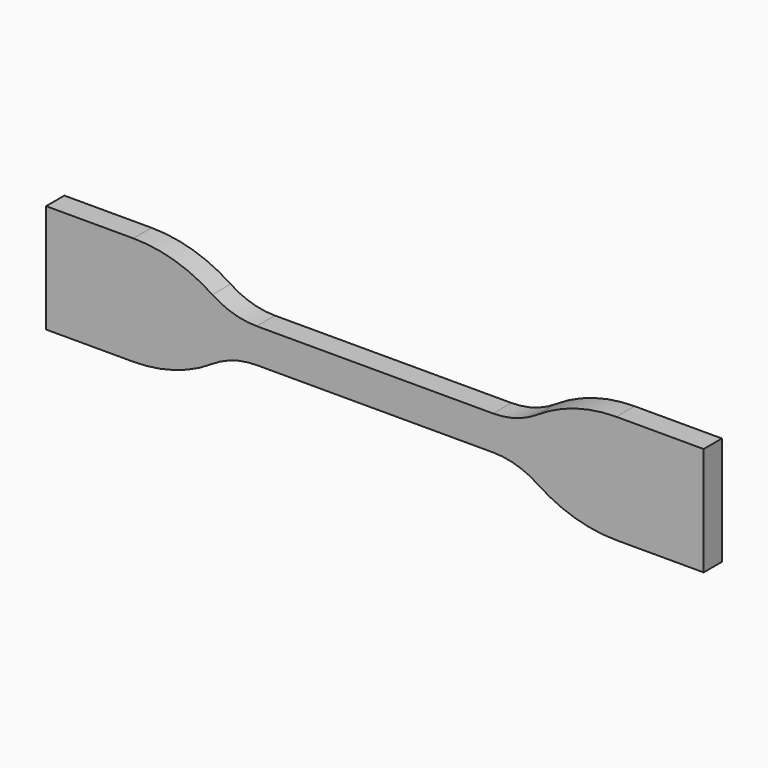
from build123d import *

# Parameters (mm, degrees)
F1_DEPTH = 2


with BuildPart() as f1:
    # F0 (on Front) → F1 (new body, symmetric)
    with BuildSketch(Plane.XZ):
        with BuildLine():
            Line((20.67841, 3), (0, 3))
            Line((0, 3), (-20.67841, 3))
            ThreePointArc((-20.67841, 3), (-24.719861, 3.59602), (-28.417201, 5.333333))
            ThreePointArc((-28.417201, 5.333333), (-35.019592, 8.435678), (-42.236471, 9.5))
            Line((-42.236471, 9.5), (-57.5, 9.5))
            Line((-57.5, 9.5), (-57.5, -9.5))
            Line((-57.5, -9.5), (-42.236471, -9.5))
            ThreePointArc((-42.236471, -9.5), (-35.019592, -8.435678), (-28.417201, -5.333333))
            ThreePointArc((-28.417201, -5.333333), (-24.719861, -3.59602), (-20.67841, -3))
            Line((-20.67841, -3), (0, -3))
            Line((0, -3), (20.67841, -3))
            ThreePointArc((20.67841, -3), (24.719861, -3.59602), (28.417201, -5.333333))
            ThreePointArc((28.417201, -5.333333), (35.019592, -8.435678), (42.236471, -9.5))
            Line((42.236471, -9.5), (57.5, -9.5))
            Line((57.5, -9.5), (57.5, 9.5))
            Line((57.5, 9.5), (42.236471, 9.5))
            ThreePointArc((42.236471, 9.5), (35.019592, 8.435678), (28.417201, 5.333333))
            ThreePointArc((28.417201, 5.333333), (24.719861, 3.59602), (20.67841, 3))
        make_face()
    extrude(amount=F1_DEPTH, both=True)


solid = f1.part
